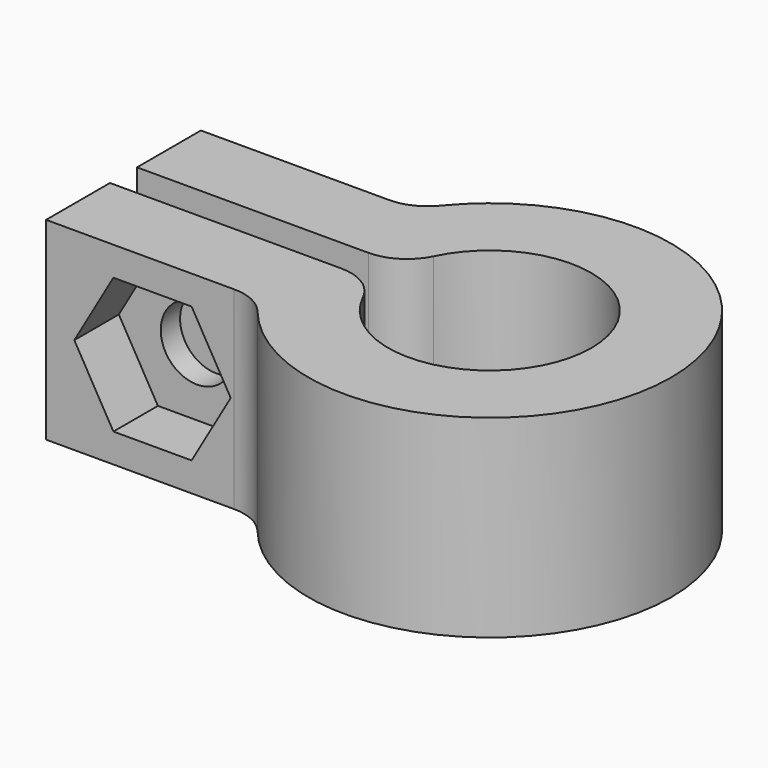
from build123d import *

# Parameters (mm, degrees)
F1_DEPTH       = 8
F3_DEPTH       = 2.3
F5_D           = 3
F5_CSINK_D     = 5.55
F5_CSINK_ANGLE = 90
F6_R           = 2


with BuildPart() as f1:
    # F0 (on Top) → F1 (new body)
    with BuildSketch(Plane.XY):
        with BuildLine():
            ThreePointArc((-4.141256, 0.7), (4.2, 0), (-4.141256, -0.7))
            Line((-4.141256, -0.7), (-7.467262, -0.7))
            Line((-7.467262, -0.7), (-15.144289, -0.7))
            Line((-15.144289, -0.7), (-15.144289, -4))
            Line((-15.144289, -4), (-6.344289, -4))
            ThreePointArc((-6.344289, -4), (7.5, 0), (-6.344289, 4))
            Line((-6.344289, 4), (-15.144289, 4))
            Line((-15.144289, 4), (-15.144289, 0.7))
            Line((-15.144289, 0.7), (-7.467262, 0.7))
            Line((-7.467262, 0.7), (-4.141256, 0.7))
        make_face()
    extrude(amount=F1_DEPTH)

    # F2 (on face) → F3 (cut)
    with BuildSketch(Plane.XZ.offset(4)):
        Polygon((-12.36087, 1.2), (-9.127708, 1.2), (-7.511127, 4), (-9.127708, 6.8), (-12.36087, 6.8), (-13.97745, 4), align=None)
    extrude(amount=-F3_DEPTH, mode=Mode.SUBTRACT)

    # F5 (through all)
    with Locations(Plane(origin=(0, 4, 0), x_dir=(-1, 0, 0), z_dir=(0, 1, 0))):
        with Locations((10.744289, 4)):
            CounterSinkHole(F5_D / 2, F5_CSINK_D / 2, counter_sink_angle=F5_CSINK_ANGLE)

    # F6
    f6_edges = [f1.edges().sort_by_distance(p)[0] for p in [
        (-4.141256, -0.7, 4),
        (-4.141256, 0.7, 4),
        (-6.344289, -4, 4),
        (-6.344289, 4, 4),
    ]]
    fillet(f6_edges, radius=F6_R)


solid = f1.part
